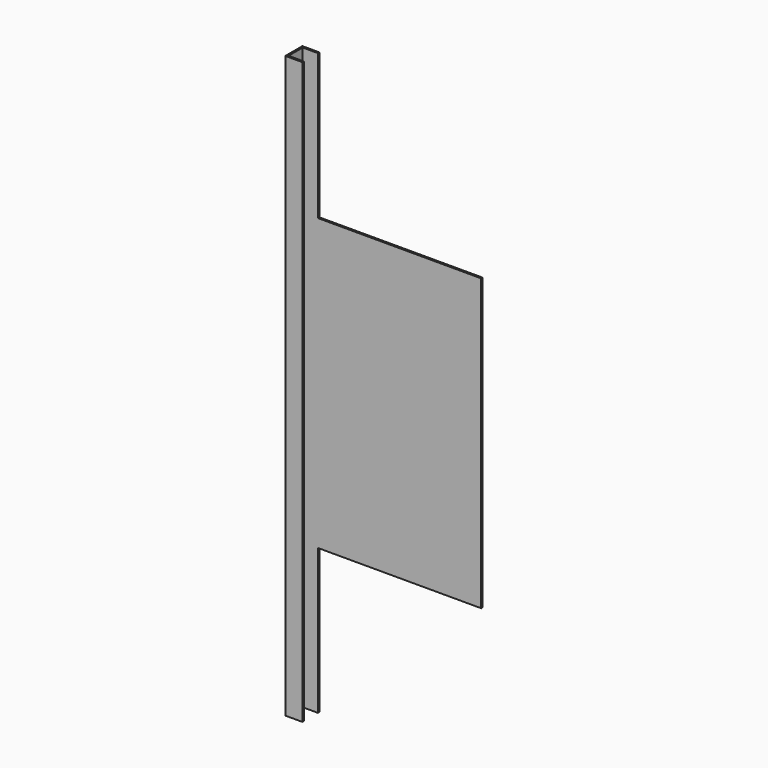
from build123d import *

# Parameters (mm, degrees)
F0_W     = 3.04038
F0_H     = 103.9368
F1_DEPTH = 3.81
F2_W     = 3.175
F2_H     = 103.9368
F3_DEPTH = 2.72288
F4_W     = 0.3175
F4_H     = 51.9684
F5_DEPTH = 29.21762


with BuildPart() as f1:
    # F0 (on Front) → F1 (new body)
    with BuildSketch(Plane.XZ):
        Rectangle(F0_W, F0_H)
    extrude(amount=F1_DEPTH)

    # F2 (on face) → F3 (cut)
    with BuildSketch(Plane.YZ.offset(1.52019)):
        with Locations((-1.905, 0)):
            Rectangle(F2_W, F2_H)
    extrude(amount=-F3_DEPTH, mode=Mode.SUBTRACT)

    # F4 (on face) → F5 (join)
    with BuildSketch(Plane.YZ.offset(1.52019)):
        with Locations((-0.15875, 0)):
            Rectangle(F4_W, F4_H)
    extrude(amount=F5_DEPTH)


solid = f1.part
